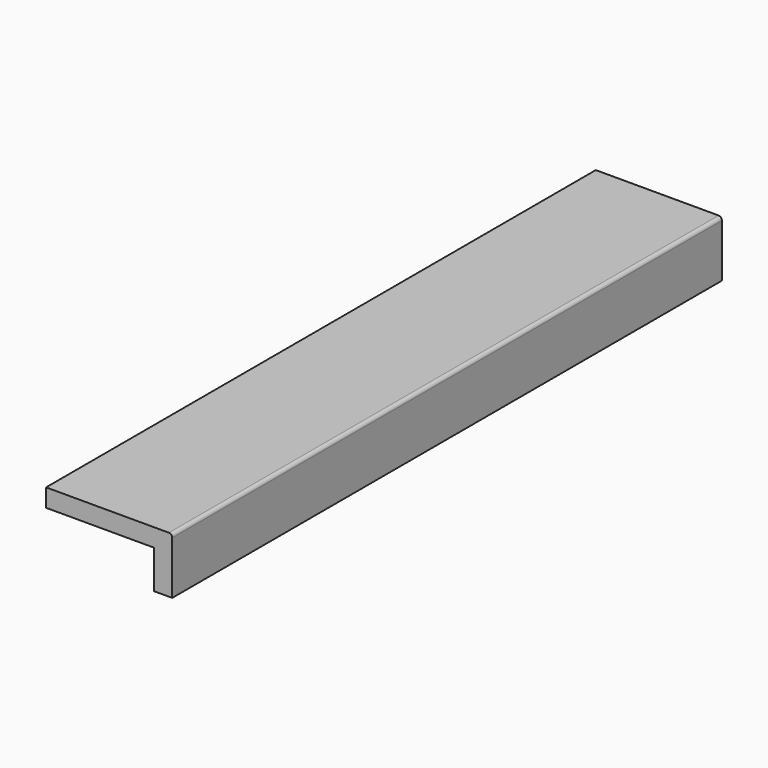
from build123d import *

# Parameters (mm, degrees)
F1_DEPTH = 1936.75


with BuildPart() as f1:
    # F0 (on Front) → F1 (new body)
    with BuildSketch(Plane.XZ):
        with BuildLine():
            Line((45.79488, 99.796312), (45.79488, -8.153688))
            Line((45.79488, -8.153688), (96.59488, -8.153688))
            Line((96.59488, -8.153688), (96.59488, 141.071312))
            ThreePointArc((96.59488, 141.071312), (93.805072, 147.806504), (87.06988, 150.596312))
            Line((87.06988, 150.596312), (-259.00512, 150.596312))
            Line((-259.00512, 150.596312), (-259.00512, 99.796312))
            Line((-259.00512, 99.796312), (45.79488, 99.796312))
        make_face()
    extrude(amount=F1_DEPTH)


solid = f1.part
